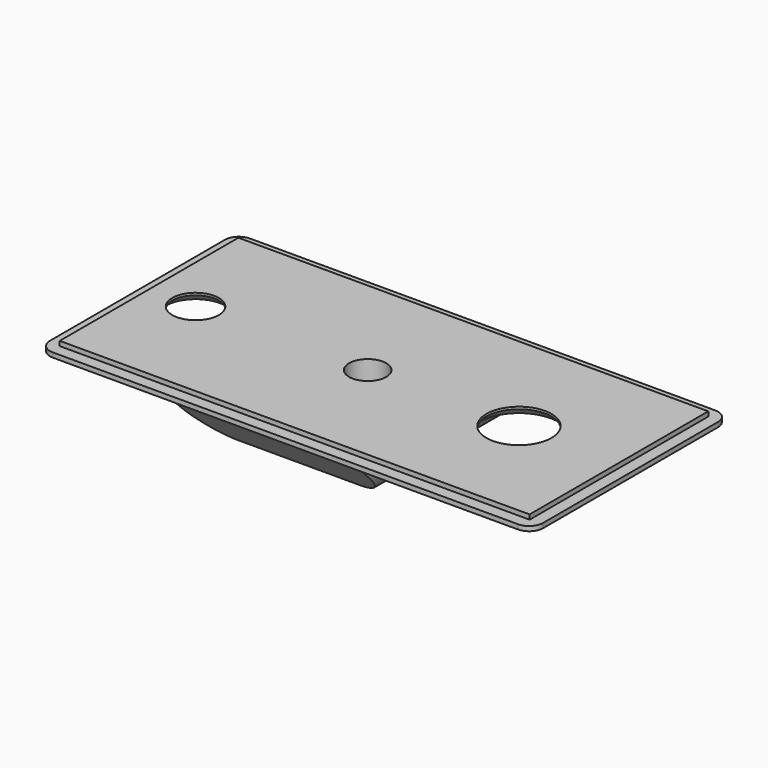
from build123d import *

# Parameters (mm, degrees)
F0_W            = 106
F0_H            = 53
F1_DEPTH        = 1
F2_W            = 101
F2_H            = 48
F3_DEPTH        = 1
F4_R            = 3
F6_D            = 14
F6_CSINK_D      = 17
F6_CSINK_ANGLE  = 90
F7_D            = 10
F7_CSINK_D      = 13
F7_CSINK_ANGLE  = 90
F8_W            = 40
F8_H            = 53
F9_DEPTH        = 8
F11_D           = 8
F11_CSINK_D     = 11
F11_CSINK_ANGLE = 90
F12_SIZE        = 8
F13_R           = 7


with BuildPart() as f1:
    # F0 (on Top) → F1 (new body)
    with BuildSketch(Plane.XY):
        Rectangle(F0_W, F0_H)
    extrude(amount=F1_DEPTH)

    # F2 (on face) → F3 (join)
    with BuildSketch(Plane.XY.offset(1)):
        Rectangle(F2_W, F2_H)
    extrude(amount=F3_DEPTH)

    # F4
    f4_edges = [f1.edges().sort_by_distance(p)[0] for p in [
        (-53, -26.5, 0.5),
        (53, -26.5, 0.5),
        (53, 26.5, 0.5),
        (-53, 26.5, 0.5),
    ]]
    fillet(f4_edges, radius=F4_R)

    # F6 (through all)
    with Locations(Plane(origin=(0, 0, 0), x_dir=(1, 0, 0), z_dir=(0, 0, -1))):
        with Locations((29, 0)):
            CounterSinkHole(F6_D / 2, F6_CSINK_D / 2, counter_sink_angle=F6_CSINK_ANGLE)

    # F7 (through all)
    with Locations(Plane(origin=(0, 0, 0), x_dir=(1, 0, 0), z_dir=(0, 0, -1))):
        with Locations((-40.5, 0)):
            CounterSinkHole(F7_D / 2, F7_CSINK_D / 2, counter_sink_angle=F7_CSINK_ANGLE)

    # F8 (on face) → F9 (join)
    with BuildSketch(Plane(origin=(0, 0, 0), x_dir=(1, 0, 0), z_dir=(0, 0, -1))):
        with Locations((-3.5, 0)):
            Rectangle(F8_W, F8_H)
    extrude(amount=F9_DEPTH)

    # F11 (through all)
    with Locations(Plane(origin=(0, 0, -8), x_dir=(1, 0, 0), z_dir=(0, 0, -1))):
        with Locations((-3.5, 0)):
            CounterSinkHole(F11_D / 2, F11_CSINK_D / 2, counter_sink_angle=F11_CSINK_ANGLE)

    # F12
    f12_edges = [f1.edges().sort_by_distance(p)[0] for p in [
        (-3.5, 26.5, -8),
        (-3.5, -26.5, -8),
    ]]
    chamfer(f12_edges, length=F12_SIZE)

    # F13
    f13_edges = [f1.edges().sort_by_distance(p)[0] for p in [
        (-23.5, 0, -8),
        (16.5, 0, -8),
    ]]
    fillet(f13_edges, radius=F13_R)


solid = f1.part
